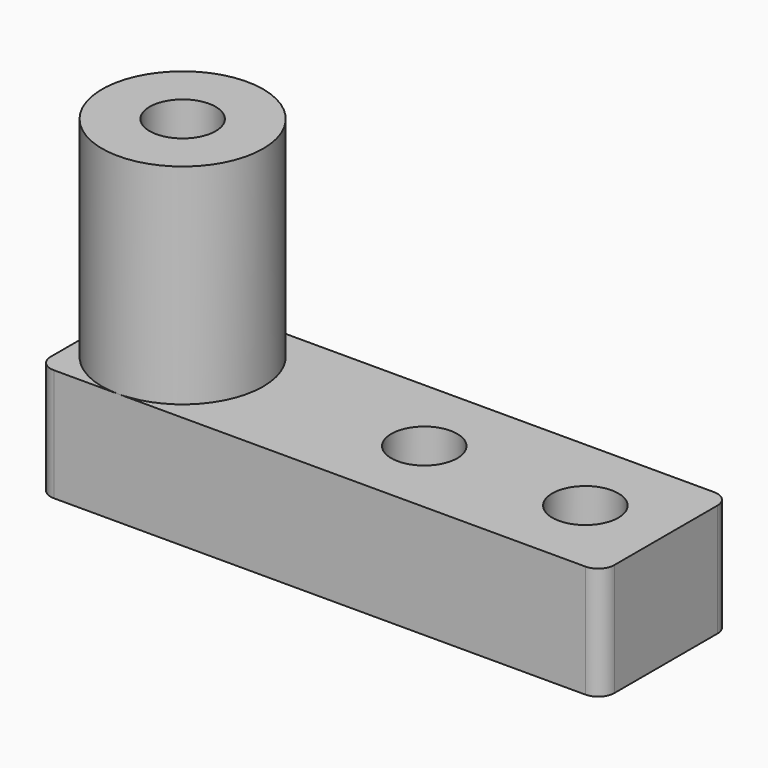
from build123d import *

# Parameters (mm, degrees)
SKETCH_R      = 2.05
PAD_DEPTH     = 7
SKETCH001_R   = 5
SKETCH001_R_2 = 2.05
PAD001_DEPTH  = 20


with BuildPart() as part:
    # Sketch → Pad (new body)
    with BuildSketch(Plane.XY):
        with BuildLine():
            ThreePointArc((-4, 5), (-4.707107, 4.707107), (-5, 4))
            Line((-5, -4), (-5, 4))
            ThreePointArc((-5, -4), (-4.707107, -4.707107), (-4, -5))
            Line((29, -5), (-4, -5))
            ThreePointArc((29, -5), (29.707107, -4.707107), (30, -4))
            Line((30, 4), (30, -4))
            ThreePointArc((30, 4), (29.707107, 4.707107), (29, 5))
            Line((-4, 5), (29, 5))
        make_face()
        Circle(SKETCH_R, mode=Mode.SUBTRACT)
        with Locations((15, 0)):
            Circle(SKETCH_R, mode=Mode.SUBTRACT)
        with Locations((25, 0)):
            Circle(SKETCH_R, mode=Mode.SUBTRACT)
    extrude(amount=PAD_DEPTH)

    # Sketch001 → Pad001 (join)
    with BuildSketch(Plane.XY):
        Circle(SKETCH001_R)
        Circle(SKETCH001_R_2, mode=Mode.SUBTRACT)
    extrude(amount=PAD001_DEPTH)


solid = part.part
